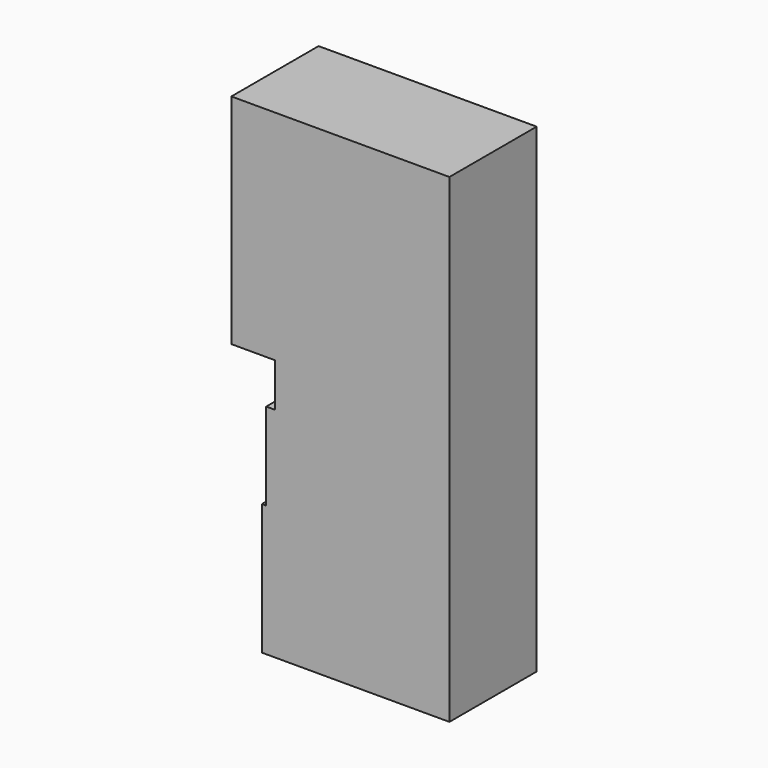
from build123d import *

# Parameters (mm, degrees)
F0_W     = 40
F0_H     = 10
F1_DEPTH = 25


with BuildPart() as f1:
    # F0 (on Front) → F1 (new body)
    with BuildSketch(Plane.XZ):
        Polygon((0, -20), (0, 0), (-40, 0), (-42, 0), (-42, -20), align=None)
        with Locations((-20, 5)):
            Rectangle(F0_W, F0_H)
        Polygon((-40, 10), (0, 10), (0, 60), (-50, 60), (-50, 10), align=None)
        Polygon((0, -50), (0, -20), (-42, -20), (-43, -20), (-43, -50), align=None)
    extrude(amount=F1_DEPTH)


solid = f1.part
